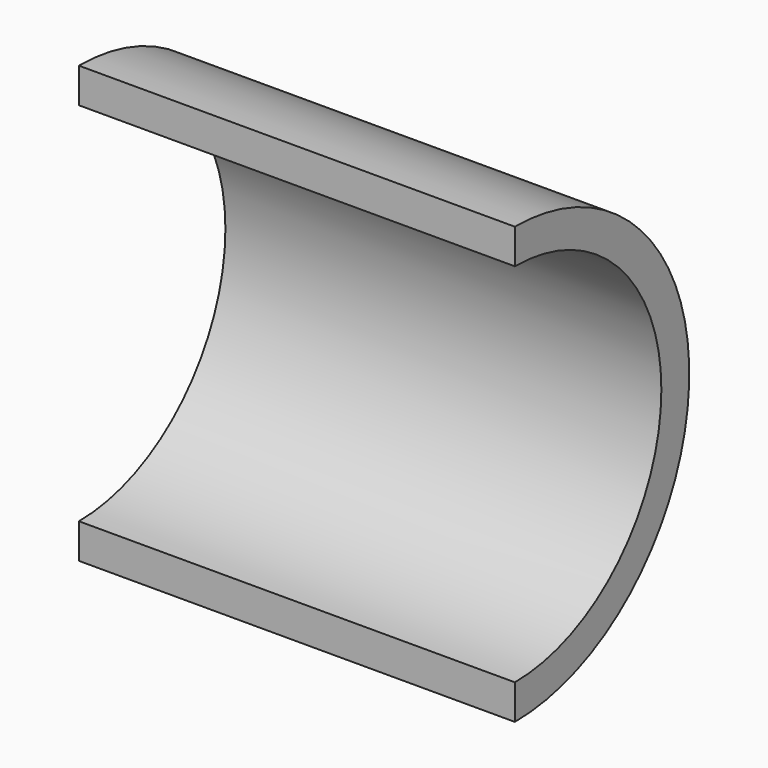
from build123d import *

# Parameters (mm, degrees)
F1_DEPTH = 500


with BuildPart() as f1:
    # F0 (on Right) → F1 (new body)
    with BuildSketch(Plane.YZ):
        with BuildLine():
            ThreePointArc((0, 0), (250, 250), (0, 500))
            Line((0, 500), (0, 460))
            ThreePointArc((0, 460), (210, 250), (0, 40))
            Line((0, 40), (0, 0))
        make_face()
    extrude(amount=-F1_DEPTH)


solid = f1.part
